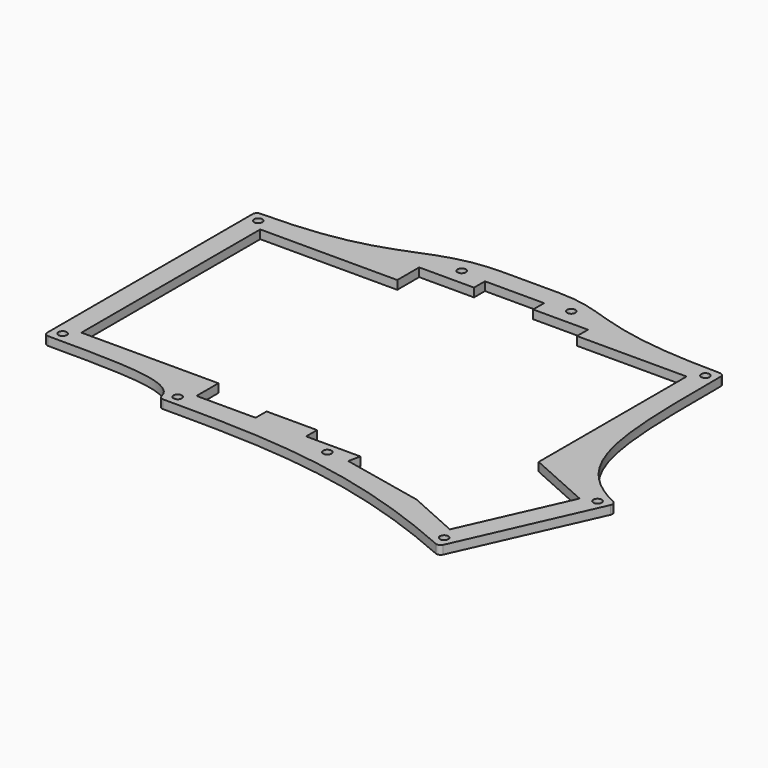
from build123d import *

# Parameters (mm, degrees)
PAD002_DEPTH    = 3
POCKET006_DEPTH = 5
SKETCH038_R     = 1.45
POCKET022_DEPTH = 16
FILLET001_R     = 1.5


with BuildPart() as part:
    # Sketch019 → Pad002 (new body)
    with BuildSketch(Plane.XY):
        with BuildLine():
            Line((85.725, 98.4875), (66.675, 98.4875))
            add(Edge.make_bspline(
                [(-8, 84.2), (39.625, 84.2), (39.625, 98.4875), (66.675, 98.4875)],
                knots=[0, 0, 0, 0, 1, 1, 1, 1], degree=3))
            Line((-8, 84.2), (-8, -8))
            add(Edge.make_bspline(
                [(39.625, -17.525), (39.625, -8), (20.575, -8), (-8, -8)],
                knots=[0, 0, 0, 0, 1, 1, 1, 1], degree=3))
            add(Edge.make_bspline(
                [(153.231854, -38.154949), (107.082107, -17.525), (76.2, -17.525), (39.625, -17.525)],
                knots=[0, 0, 0, 0, 1, 1, 1, 1], degree=3))
            Line((153.231854, -38.154949), (175.310198, 11.234895))
            add(Edge.make_bspline(
                [(150.875, 88.9625), (150.875, 42.8625), (150.875, 22.157965), (175.310198, 11.234895)],
                knots=[0, 0, 0, 0, 1, 1, 1, 1], degree=3))
            add(Edge.make_bspline(
                [(85.725, 98.4875), (104.775, 98.4875), (104.775, 88.9625), (150.875, 88.9625)],
                knots=[0, 0, 0, 0, 1, 1, 1, 1], degree=3))
        make_face()
    extrude(amount=PAD002_DEPTH)

    # Sketch020 (on Face9 of Pad) → Pocket006 (cut)
    with BuildSketch(Plane(origin=(0, 0, 0), x_dir=(1, 0, 0), z_dir=(0, 0, -1))):
        Polygon((-0.75, 0.75), (-0.75, -76.95), (46.875, -76.95), (46.875, -86.475), (65.925, -86.475), (65.925, -91.2375), (86.475, -91.2375), (86.475, -86.475), (105.525, -86.475), (105.525, -81.7125), (143.625, -81.7125), (143.625, -17.457464), (165.732668, -7.574851), (149.57181, 28.577419), (131.568158, 20.529392), (102.96164, 14.448889), (103.848827, 10.275), (84.975, 10.275), (84.975, 5.5125), (67.425, 5.5125), (67.425, 10.275), (46.875, 10.275), (46.875, 0.75), align=None)
    extrude(amount=-POCKET006_DEPTH, mode=Mode.SUBTRACT)

    # Sketch038 → Pocket022 (cut)
    with BuildSketch(Plane.XY):
        with Locations((-4.375, -4.375)):
            Circle(SKETCH038_R)
        with Locations((-4.375, 80.575)):
            Circle(SKETCH038_R)
        with Locations((151.401832, -33.366184)):
            Circle(SKETCH038_R)
        with Locations((170.521433, 9.404873)):
            Circle(SKETCH038_R)
        with Locations((147.25, 85.3375)):
            Circle(SKETCH038_R)
        with Locations((43.25, -13.9)):
            Circle(SKETCH038_R)
        with Locations((57.15, 92.085)):
            Circle(SKETCH038_R)
        with Locations((95.25, 92.085)):
            Circle(SKETCH038_R)
        with Locations((95.25, -13.9)):
            Circle(SKETCH038_R)
    extrude(amount=POCKET022_DEPTH, mode=Mode.SUBTRACT)

    # Fillet001
    fillet001_edges = [part.edges().sort_by_distance(p)[0] for p in [
        (-8, -8, 1.5),
        (39.625, -17.525, 1.5),
        (153.231854, -38.154949, 1.5),
        (175.310198, 11.234895, 1.5),
        (150.875, 88.9625, 1.5),
        (-8, 84.2, 1.5),
    ]]
    fillet(fillet001_edges, radius=FILLET001_R)


with BuildPart() as part_1:
    # Body002 placement: moved
    add(part.part.moved(Location((0, 0, 3))))


solid = part_1.part
